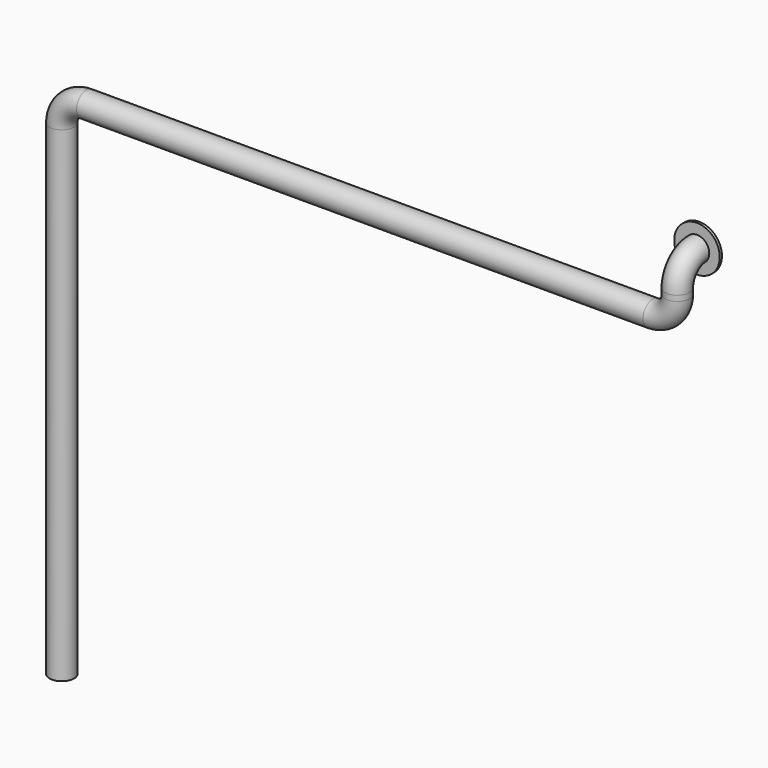
from build123d import *

# Parameters (mm, degrees)
F0_R     = 67.5
F0_R_2   = 125
F5_DEPTH = 15


with BuildPart() as f4:
    # F4: sweep along a path in F1, F3
    with BuildLine(Plane.YZ) as f4_path:
        Line((0, 0), (-15, 0))
        ThreePointArc((-15, 0), (-110.4594154602, -39.5405845398), (-150, -135))
    with BuildLine(Plane.XZ.offset(150)) as f4_path_2:
        Line((0, -135), (0, -150))
        Line((0, -150), (0, -165))
        ThreePointArc((0, -165), (-39.5405845398, -260.4594154602), (-135, -300))
        Line((-135, -300), (-3245, -300))
        ThreePointArc((-3245, -300), (-3340.4594154602, -339.5405845398), (-3380, -435))
        Line((-3380, -435), (-3380, -3100))
    # F0 (on Front) → F4 (sweep)
    with BuildSketch(Plane.XZ):
        Circle(F0_R)
    sweep(path=f4_path.line + f4_path_2.line)

    # F0 (on Front) → F5 (join)
    with BuildSketch(Plane.XZ):
        Circle(F0_R_2)
        Circle(F0_R, mode=Mode.SUBTRACT)
    extrude(amount=F5_DEPTH)


solid = f4.part
